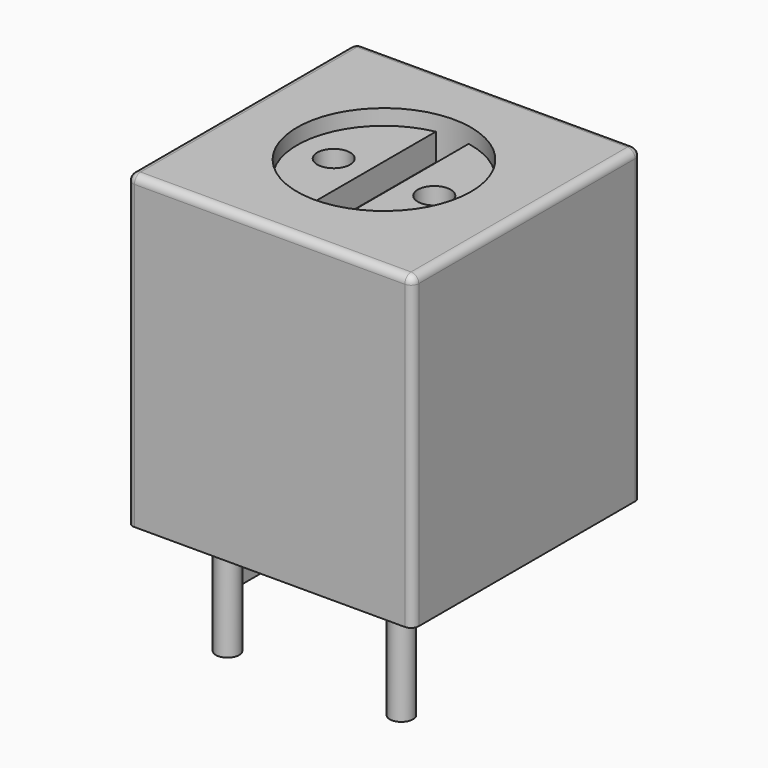
from build123d import *

# Parameters (mm, degrees)
SKETCH_R     = 0.3
PAD_DEPTH    = 3
SKETCH001_W  = 0.2
SKETCH001_H  = 1
PAD001_DEPTH = 3
SKETCH002_W  = 7.3914
SKETCH002_H  = 7.3914
SKETCH002_R  = 2.25
PAD002_DEPTH = 8
FILLET_R     = 0.2
SKETCH003_R  = 2.245
PAD003_DEPTH = 7.6
SKETCH004_R  = 0.425
SKETCH004_W  = 0.85
SKETCH004_H  = 5
POCKET_DEPTH = 0.7


with BuildPart() as body:
    # Sketch → Pad (new body)
    with BuildSketch(Plane.XY):
        Circle(SKETCH_R)
    extrude(amount=-PAD_DEPTH)


with BuildPart() as body_1:
    # Body placement: moved
    add(body.part.moved(Location((0, 2.2479, 0))))


with BuildPart() as body002:
    # Body001 base: copy of Body
    add(body_1.part)


with BuildPart() as body002_1:
    # Body001 placement: moved
    add(body002.part.moved(Location((-2.2479, 0, 0))))


with BuildPart() as body002_2:
    # Body002 placement: moved
    add(body002_1.part.moved(Location((0, -4.4958, 0))))


with BuildPart() as body004:
    # Body003 base: copy of Body
    add(body_1.part)


with BuildPart() as body004_1:
    # Body003 placement: moved
    add(body004.part.moved(Location((2.2479, 0, 0))))


with BuildPart() as body004_2:
    # Body004 placement: moved
    add(body004_1.part.moved(Location((0, -4.4958, 0))))


with BuildPart() as body006:
    # Sketch001 → Pad001 (new body)
    with BuildSketch(Plane.XY):
        Rectangle(SKETCH001_W, SKETCH001_H)
    extrude(amount=-PAD001_DEPTH)


with BuildPart() as body006_1:
    # Body005 placement: moved
    add(body006.part.moved(Location((3.6957, 0, 0.2))))


with BuildPart() as body006_2:
    # Clone004 placement: moved
    add(body006_1.part.moved(Location((0, 0, -0.2))))


with BuildPart() as body006_3:
    # Body006 placement: moved
    add(body006_2.part.moved(Location((-7.3914, 0, 0.2))))


with BuildPart() as shield_body:
    # Sketch002 → Pad002 (new body)
    with BuildSketch(Plane.XY):
        Rectangle(SKETCH002_W, SKETCH002_H)
        Circle(SKETCH002_R, mode=Mode.SUBTRACT)
    extrude(amount=PAD002_DEPTH)

    # Fillet
    fillet_edges = [shield_body.edges().sort_by_distance(p)[0] for p in [
        (3.6957, 0, 8),
        (0, -3.6957, 8),
        (-3.6957, 0, 8),
        (0, 3.6957, 8),
        (3.6957, -3.6957, 4),
        (-3.6957, -3.6957, 4),
        (3.6957, 3.6957, 4),
        (-3.6957, 3.6957, 4),
    ]]
    fillet(fillet_edges, radius=FILLET_R)


with BuildPart() as tuner:
    # Sketch003 → Pad003 (new body)
    with BuildSketch(Plane.XY):
        Circle(SKETCH003_R)
    extrude(amount=PAD003_DEPTH)

    # Sketch004 → Pocket (cut)
    with BuildSketch(Plane.XY.offset(7.6)):
        with Locations((-1.3, 0)):
            Circle(SKETCH004_R)
        with Locations((1.3, 0)):
            Circle(SKETCH004_R)
        Rectangle(SKETCH004_W, SKETCH004_H)
    extrude(amount=-POCKET_DEPTH, mode=Mode.SUBTRACT)


solid = Compound([body002_2.part, body004_2.part, body006_3.part, shield_body.part, tuner.part])
